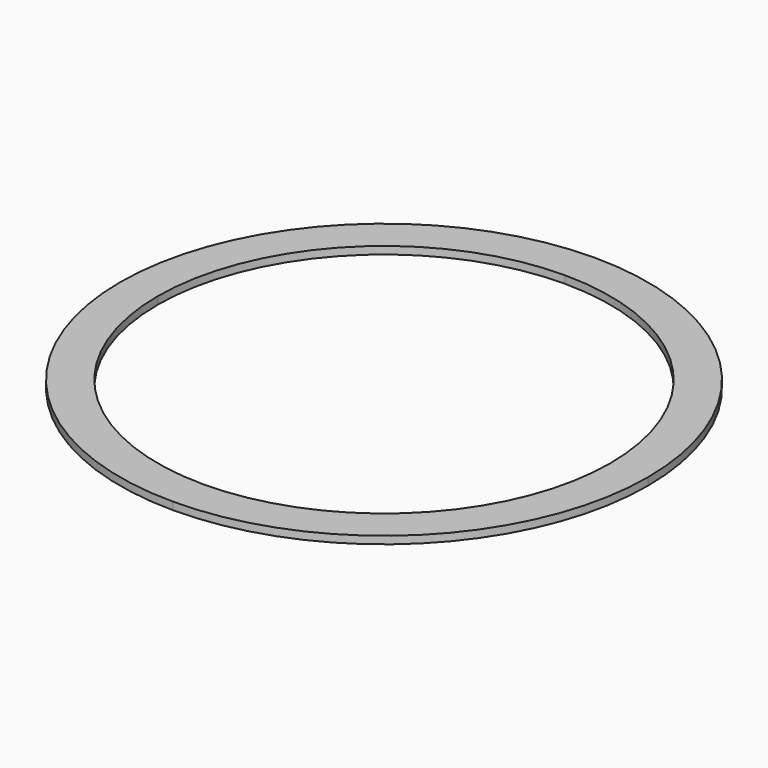
from build123d import *

# Parameters (mm, degrees)
F1_DEPTH = 20


with BuildPart() as f1:
    # F0 (on Top) → F1 (new body)
    with BuildSketch(Plane.XY):
        with BuildLine():
            ThreePointArc((0, -600), (-424.264069, -424.264069), (-600, 0))
            Line((-600, 0), (-700, 0))
            ThreePointArc((-700, 0), (-494.974747, -494.974747), (0, -700))
            Line((0, -700), (0, -600))
        make_face()
        with BuildLine():
            Line((-700, 0), (-600, 0))
            ThreePointArc((-600, 0), (-424.264069, 424.264069), (0, 600))
            Line((0, 600), (0, 700))
            ThreePointArc((0, 700), (-494.974747, 494.974747), (-700, 0))
        make_face()
        with BuildLine():
            ThreePointArc((600, 0), (424.264069, -424.264069), (0, -600))
            Line((0, -600), (0, -700))
            ThreePointArc((0, -700), (494.974747, -494.974747), (700, 0))
            Line((700, 0), (600, 0))
        make_face()
        with BuildLine():
            Line((0, 700), (0, 600))
            ThreePointArc((0, 600), (424.264069, 424.264069), (600, 0))
            Line((600, 0), (700, 0))
            ThreePointArc((700, 0), (494.974747, 494.974747), (0, 700))
        make_face()
    extrude(amount=F1_DEPTH)


solid = f1.part
